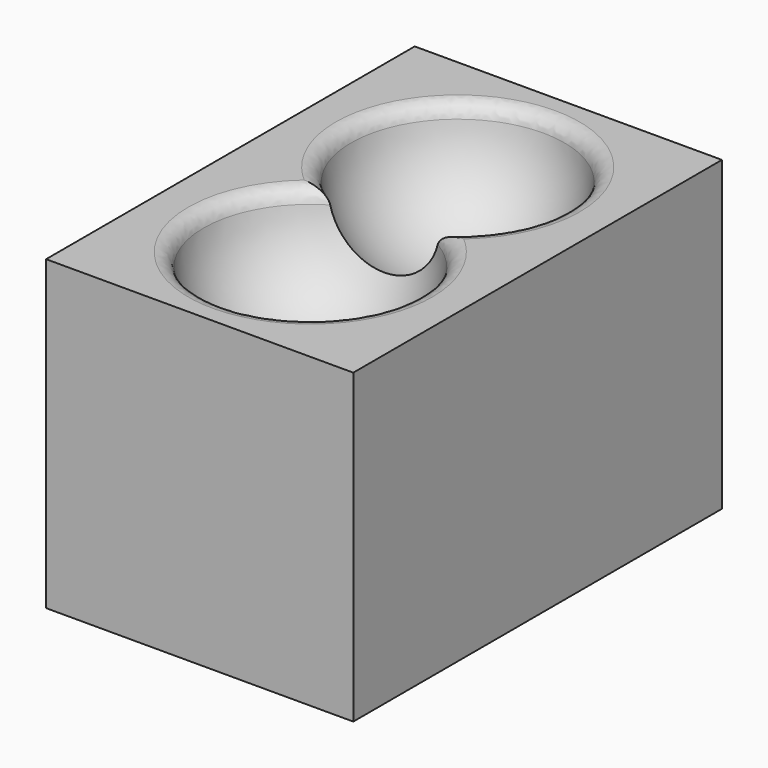
from build123d import *

# Parameters (mm, degrees)
F0_W     = 10
F0_H     = 15
F1_DEPTH = 10
F4_R     = 0.5


with BuildPart() as f1:
    # F0 (on Top) → F1 (new body)
    with BuildSketch(Plane.XY):
        Rectangle(F0_W, F0_H)
    extrude(amount=-F1_DEPTH)

    # F2 (on face) → F3 (revolve, cut)
    with BuildSketch(Plane.XY):
        with BuildLine():
            ThreePointArc((1.8027756377, 0), (3.3726843908, 3.9354143467), (0, 6.5))
            Line((0, 6.5), (0, 0.5))
            ThreePointArc((0, 0.5), (0.9354143467, 0.3726843908), (1.8027756377, 0))
        make_face()
        with BuildLine():
            ThreePointArc((1.8027756377, 0), (0.9354143467, 0.3726843908), (0, 0.5))
            Line((0, 0.5), (0, -0.5))
            ThreePointArc((0, -0.5), (0.9354143467, -0.3726843908), (1.8027756377, 0))
        make_face()
        with BuildLine():
            ThreePointArc((0, -6.5), (3.3726843908, -3.9354143467), (1.8027756377, 0))
            ThreePointArc((1.8027756377, 0), (0.9354143467, -0.3726843908), (0, -0.5))
            Line((0, -0.5), (0, -6.5))
        make_face()
    revolve(axis=Axis((0, 0.2168327096, 0), (0, -1, 0)), mode=Mode.SUBTRACT)

    # F4
    f4_edges = [f1.edges().sort_by_distance(p)[0] for p in [
        (3.372684, 3.935414, 0),
        (-3.372684, 3.935414, 0),
        (3.372684, -3.935414, 0),
        (-3.372684, -3.935414, 0),
    ]]
    fillet(f4_edges, radius=F4_R)


solid = f1.part
